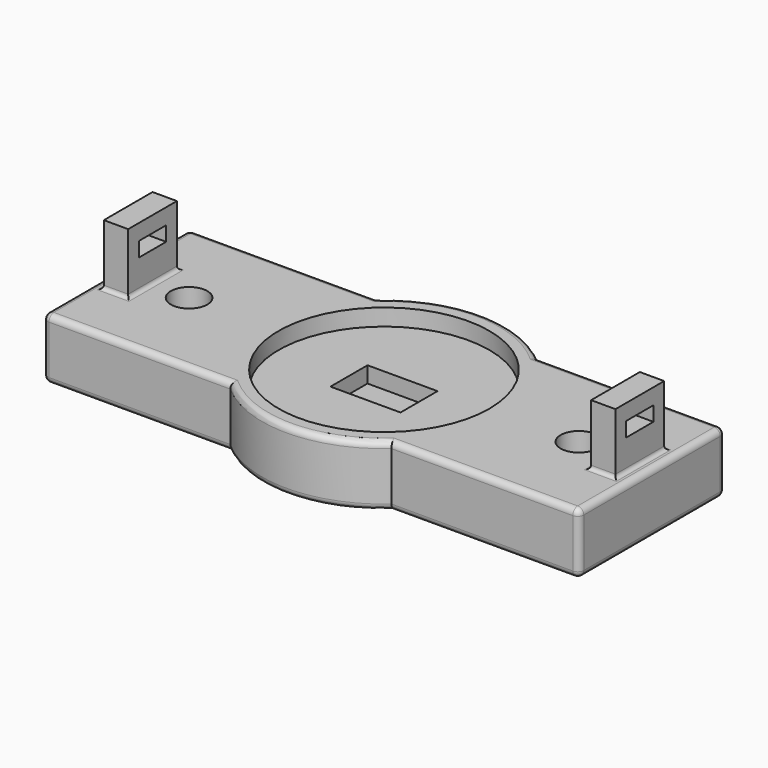
from build123d import *

# Parameters (mm, degrees)
PAD_DEPTH            = 5
SKETCH001_R          = 8.65
POCKET_DEPTH         = 1.38
SKETCH002_W          = 5.75
SKETCH002_H          = 3.8
POCKET001_DEPTH      = 1.32
SKETCH003_R          = 1.5
POCKET002_DEPTH      = 5.001
FILLET_R             = 0.5
SKETCH004_W          = 2
SKETCH004_H          = 5
PAD001_DEPTH         = 5
FILLET001_R          = 0.3
SKETCH005_W          = 2.8
SKETCH005_H          = 1.2
POCKET003_DEPTH      = 3.001
POCKET003_DEPTH_BACK = -41.001


with BuildPart() as part:
    # Sketch → Pad (new body)
    with BuildSketch(Plane.XY):
        with BuildLine():
            ThreePointArc((6.614378, 7.5), (0, 10), (-6.614378, 7.5))
            Line((-6.614378, 7.5), (-22, 7.5))
            Line((-22, 7.5), (-22, -7.5))
            Line((-22, -7.5), (-6.614378, -7.5))
            ThreePointArc((-6.614378, -7.5), (0, -10), (6.614378, -7.5))
            Line((22, -7.5), (6.614378, -7.5))
            Line((22, 7.5), (22, -7.5))
            Line((6.614378, 7.5), (22, 7.5))
        make_face()
    extrude(amount=PAD_DEPTH)

    # Sketch001 → Pocket (cut)
    with BuildSketch(Plane.XY.offset(5)):
        Circle(SKETCH001_R)
    extrude(amount=-POCKET_DEPTH, mode=Mode.SUBTRACT)

    # Sketch002 → Pocket001 (cut)
    with BuildSketch(Plane.XY.offset(3.62)):
        Rectangle(SKETCH002_W, SKETCH002_H)
    extrude(amount=-POCKET001_DEPTH, mode=Mode.SUBTRACT)

    # Sketch003 → Pocket002 (cut, through all)
    with BuildSketch(Plane.XY.offset(5)):
        with Locations((-16, 0)):
            Circle(SKETCH003_R)
        with Locations((16, 0)):
            Circle(SKETCH003_R)
    extrude(amount=-POCKET002_DEPTH, mode=Mode.SUBTRACT)

    # Fillet
    fillet_edges = [part.edges().sort_by_distance(p)[0] for p in [
        (-14.307189, 7.5, 0),
        (0, 10, 0),
        (14.307189, 7.5, 0),
        (22, 0, 0),
        (14.307189, -7.5, 0),
        (0, -10, 0),
        (-14.307189, -7.5, 0),
        (-22, 7.5, 2.5),
        (-22, 0, 0),
        (-22, -7.5, 2.5),
        (-22, 0, 5),
        (-14.307189, 7.5, 5),
        (0, 10, 5),
        (14.307189, 7.5, 5),
        (22, 7.5, 2.5),
        (22, 0, 5),
        (22, -7.5, 2.5),
        (14.307189, -7.5, 5),
        (0, -10, 5),
        (-14.307189, -7.5, 5),
    ]]
    fillet(fillet_edges, radius=FILLET_R)

    # Sketch004 → Pad001 (new body)
    with BuildSketch(Plane.XY.offset(5)):
        with Locations((-20, 0)):
            Rectangle(SKETCH004_W, SKETCH004_H)
        with Locations((20, 0)):
            Rectangle(SKETCH004_W, SKETCH004_H)
    extrude(amount=PAD001_DEPTH)

    # Fillet001
    fillet001_edges = [part.edges().sort_by_distance(p)[0] for p in [
        (-21, 0, 5),
        (-20, -2.5, 5),
        (20, -2.5, 5),
        (19, 0, 5),
        (-20, 2.5, 5),
        (-19, 0, 5),
        (20, 2.5, 5),
        (21, 0, 5),
    ]]
    fillet(fillet001_edges, radius=FILLET001_R)

    # Sketch005 → Pocket003 (cut, two sides)
    with BuildSketch(Plane.YZ.offset(-19)) as pocket003_sk:
        with Locations((0, 8.1)):
            Rectangle(SKETCH005_W, SKETCH005_H)
    extrude(amount=-POCKET003_DEPTH, mode=Mode.SUBTRACT)
    extrude(pocket003_sk.sketch, amount=-POCKET003_DEPTH_BACK, mode=Mode.SUBTRACT)


solid = part.part
